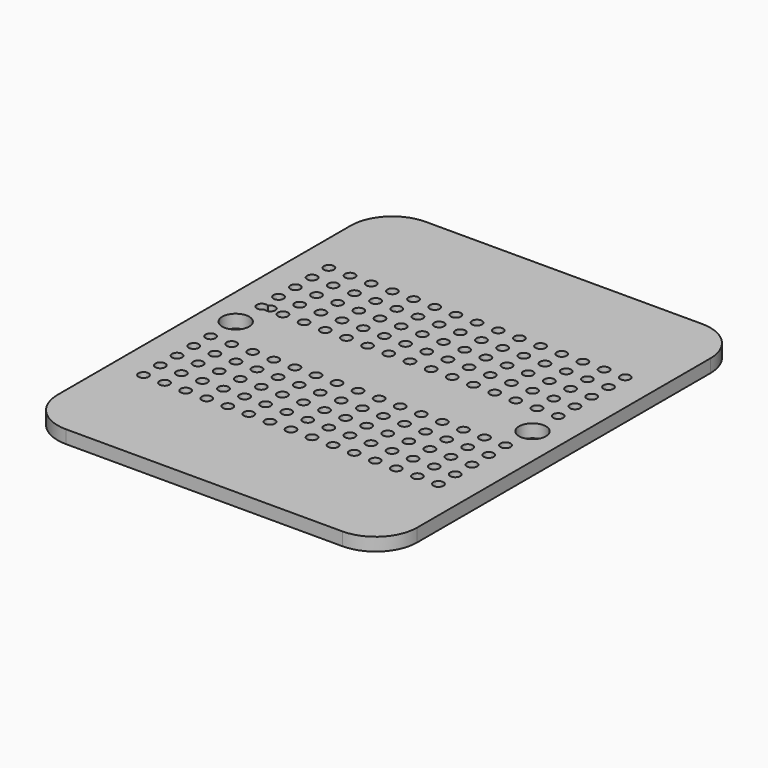
from build123d import *

# Parameters (mm, degrees)
F0_W     = 44
F0_H     = 55
F1_DEPTH = 1.6
F2_R     = 5.08
F3_R     = 0.614221
F3_R_2   = 1.645653
F3_R_3   = 0.612602
F4_DEPTH = 1.6


with BuildPart() as f1:
    # F0 (on Top) → F1 (new body)
    with BuildSketch(Plane.XY):
        with Locations((22, -27.5)):
            Rectangle(F0_W, F0_H)
    extrude(amount=F1_DEPTH)

    # F2
    f2_edges = [f1.edges().sort_by_distance(p)[0] for p in [
        (0, -55, 0.8),
        (44, -55, 0.8),
        (44, 0, 0.8),
        (0, 0, 0.8),
    ]]
    fillet(f2_edges, radius=F2_R)

    # F3 (on face) → F4 (intersect, through all)
    with BuildSketch(Plane.XY.offset(1.6)):
        with BuildLine():
            ThreePointArc((44, -5.08), (42.512102, -1.487898), (38.92, 0))
            Line((38.92, 0), (5.08, 0))
            ThreePointArc((5.08, 0), (1.487898, -1.487898), (0, -5.08))
            Line((0, -5.08), (0, -49.92))
            ThreePointArc((0, -49.92), (1.487898, -53.512102), (5.08, -55))
            Line((5.08, -55), (38.92, -55))
            ThreePointArc((38.92, -55), (42.512102, -53.512102), (44, -49.92))
            Line((44, -49.92), (44, -5.08))
        make_face()
        with Locations((3.856079, -41.605529)):
            Circle(F3_R, mode=Mode.SUBTRACT)
        with Locations((6.434179, -41.605529)):
            Circle(F3_R, mode=Mode.SUBTRACT)
        with Locations((9.012279, -41.605529)):
            Circle(F3_R, mode=Mode.SUBTRACT)
        with Locations((11.590379, -41.605529)):
            Circle(F3_R, mode=Mode.SUBTRACT)
        with Locations((14.168479, -41.605529)):
            Circle(F3_R, mode=Mode.SUBTRACT)
        with Locations((16.746579, -41.605529)):
            Circle(F3_R, mode=Mode.SUBTRACT)
        with Locations((19.324679, -41.605529)):
            Circle(F3_R, mode=Mode.SUBTRACT)
        with Locations((21.902779, -41.605529)):
            Circle(F3_R, mode=Mode.SUBTRACT)
        with Locations((3.856079, -39.040129)):
            Circle(F3_R, mode=Mode.SUBTRACT)
        with Locations((3.856079, -36.474729)):
            Circle(F3_R, mode=Mode.SUBTRACT)
        with Locations((6.434179, -39.040129)):
            Circle(F3_R, mode=Mode.SUBTRACT)
        with Locations((9.012279, -39.040129)):
            Circle(F3_R, mode=Mode.SUBTRACT)
        with Locations((6.434179, -36.474729)):
            Circle(F3_R, mode=Mode.SUBTRACT)
        with Locations((9.012279, -36.474729)):
            Circle(F3_R, mode=Mode.SUBTRACT)
        with Locations((3.856079, -33.909329)):
            Circle(F3_R, mode=Mode.SUBTRACT)
        with Locations((3.856079, -31.343929)):
            Circle(F3_R, mode=Mode.SUBTRACT)
        with Locations((6.434179, -33.909329)):
            Circle(F3_R, mode=Mode.SUBTRACT)
        with Locations((6.434179, -31.343929)):
            Circle(F3_R, mode=Mode.SUBTRACT)
        with Locations((9.012279, -33.909329)):
            Circle(F3_R, mode=Mode.SUBTRACT)
        with Locations((9.012279, -31.343929)):
            Circle(F3_R, mode=Mode.SUBTRACT)
        with Locations((11.590379, -39.040129)):
            Circle(F3_R, mode=Mode.SUBTRACT)
        with Locations((14.168479, -39.040129)):
            Circle(F3_R, mode=Mode.SUBTRACT)
        with Locations((11.590379, -36.474729)):
            Circle(F3_R, mode=Mode.SUBTRACT)
        with Locations((14.168479, -36.474729)):
            Circle(F3_R, mode=Mode.SUBTRACT)
        with Locations((16.746579, -39.040129)):
            Circle(F3_R, mode=Mode.SUBTRACT)
        with Locations((19.324679, -39.040129)):
            Circle(F3_R, mode=Mode.SUBTRACT)
        with Locations((21.902779, -39.040129)):
            Circle(F3_R, mode=Mode.SUBTRACT)
        with Locations((16.746579, -36.474729)):
            Circle(F3_R, mode=Mode.SUBTRACT)
        with Locations((19.324679, -36.474729)):
            Circle(F3_R, mode=Mode.SUBTRACT)
        with Locations((21.902779, -36.474729)):
            Circle(F3_R, mode=Mode.SUBTRACT)
        with Locations((11.590379, -33.909329)):
            Circle(F3_R, mode=Mode.SUBTRACT)
        with Locations((11.590379, -31.343929)):
            Circle(F3_R, mode=Mode.SUBTRACT)
        with Locations((14.168479, -33.909329)):
            Circle(F3_R, mode=Mode.SUBTRACT)
        with Locations((14.168479, -31.343929)):
            Circle(F3_R, mode=Mode.SUBTRACT)
        with Locations((16.746579, -33.909329)):
            Circle(F3_R, mode=Mode.SUBTRACT)
        with Locations((16.746579, -31.343929)):
            Circle(F3_R, mode=Mode.SUBTRACT)
        with Locations((19.324679, -33.909329)):
            Circle(F3_R, mode=Mode.SUBTRACT)
        with Locations((21.902779, -33.909329)):
            Circle(F3_R, mode=Mode.SUBTRACT)
        with Locations((19.324679, -31.343929)):
            Circle(F3_R, mode=Mode.SUBTRACT)
        with Locations((21.902779, -31.343929)):
            Circle(F3_R, mode=Mode.SUBTRACT)
        with Locations((24.480879, -41.605529)):
            Circle(F3_R, mode=Mode.SUBTRACT)
        with Locations((27.058979, -41.605529)):
            Circle(F3_R, mode=Mode.SUBTRACT)
        with Locations((29.637079, -41.605529)):
            Circle(F3_R, mode=Mode.SUBTRACT)
        with Locations((32.215179, -41.605529)):
            Circle(F3_R, mode=Mode.SUBTRACT)
        with Locations((34.793279, -41.605529)):
            Circle(F3_R, mode=Mode.SUBTRACT)
        with Locations((37.371379, -41.605529)):
            Circle(F3_R, mode=Mode.SUBTRACT)
        with Locations((39.949479, -41.605529)):
            Circle(F3_R, mode=Mode.SUBTRACT)
        with Locations((24.480879, -39.040129)):
            Circle(F3_R, mode=Mode.SUBTRACT)
        with Locations((27.058979, -39.040129)):
            Circle(F3_R, mode=Mode.SUBTRACT)
        with Locations((24.480879, -36.474729)):
            Circle(F3_R, mode=Mode.SUBTRACT)
        with Locations((27.058979, -36.474729)):
            Circle(F3_R, mode=Mode.SUBTRACT)
        with Locations((29.637079, -39.040129)):
            Circle(F3_R, mode=Mode.SUBTRACT)
        with Locations((32.215179, -39.040129)):
            Circle(F3_R, mode=Mode.SUBTRACT)
        with Locations((29.637079, -36.474729)):
            Circle(F3_R, mode=Mode.SUBTRACT)
        with Locations((32.215179, -36.474729)):
            Circle(F3_R, mode=Mode.SUBTRACT)
        with Locations((24.480879, -33.909329)):
            Circle(F3_R, mode=Mode.SUBTRACT)
        with Locations((24.480879, -31.343929)):
            Circle(F3_R, mode=Mode.SUBTRACT)
        with Locations((27.058979, -33.909329)):
            Circle(F3_R, mode=Mode.SUBTRACT)
        with Locations((27.058979, -31.343929)):
            Circle(F3_R, mode=Mode.SUBTRACT)
        with Locations((29.637079, -33.909329)):
            Circle(F3_R, mode=Mode.SUBTRACT)
        with Locations((29.637079, -31.343929)):
            Circle(F3_R, mode=Mode.SUBTRACT)
        with Locations((32.215179, -33.909329)):
            Circle(F3_R, mode=Mode.SUBTRACT)
        with Locations((32.215179, -31.343929)):
            Circle(F3_R, mode=Mode.SUBTRACT)
        with Locations((34.793279, -39.040129)):
            Circle(F3_R, mode=Mode.SUBTRACT)
        with Locations((37.371379, -39.040129)):
            Circle(F3_R, mode=Mode.SUBTRACT)
        with Locations((34.793279, -36.474729)):
            Circle(F3_R, mode=Mode.SUBTRACT)
        with Locations((37.371379, -36.474729)):
            Circle(F3_R, mode=Mode.SUBTRACT)
        with Locations((39.949479, -39.040129)):
            Circle(F3_R, mode=Mode.SUBTRACT)
        with Locations((39.949479, -36.474729)):
            Circle(F3_R, mode=Mode.SUBTRACT)
        with Locations((34.793279, -33.909329)):
            Circle(F3_R, mode=Mode.SUBTRACT)
        with Locations((34.793279, -31.343929)):
            Circle(F3_R, mode=Mode.SUBTRACT)
        with Locations((37.371379, -33.909329)):
            Circle(F3_R, mode=Mode.SUBTRACT)
        with Locations((37.371379, -31.343929)):
            Circle(F3_R, mode=Mode.SUBTRACT)
        with Locations((39.949479, -33.909329)):
            Circle(F3_R, mode=Mode.SUBTRACT)
        with Locations((39.949479, -31.343929)):
            Circle(F3_R, mode=Mode.SUBTRACT)
        with Locations((3.833656, -27.473937)):
            Circle(F3_R_2, mode=Mode.SUBTRACT)
        with BuildLine():
            ThreePointArc((4.368433, -23.781439), (3.235946, -23.626046), (4.179396, -22.980619))
            ThreePointArc((4.179396, -22.980619), (4.868573, -22.683539), (5.328269, -23.276752))
            ThreePointArc((5.328269, -23.276752), (5.000768, -23.818968), (4.368433, -23.781439))
        make_face(mode=Mode.SUBTRACT)
        with Locations((3.832162, -20.919907)):
            Circle(F3_R_3, mode=Mode.SUBTRACT)
        with Locations((6.422962, -23.485307)):
            Circle(F3_R_3, mode=Mode.SUBTRACT)
        with Locations((6.422962, -20.919907)):
            Circle(F3_R_3, mode=Mode.SUBTRACT)
        with Locations((9.013762, -23.485307)):
            Circle(F3_R_3, mode=Mode.SUBTRACT)
        with Locations((9.013762, -20.919907)):
            Circle(F3_R_3, mode=Mode.SUBTRACT)
        with Locations((3.832162, -18.354507)):
            Circle(F3_R_3, mode=Mode.SUBTRACT)
        with Locations((3.832162, -15.789107)):
            Circle(F3_R_3, mode=Mode.SUBTRACT)
        with Locations((6.422962, -18.354507)):
            Circle(F3_R_3, mode=Mode.SUBTRACT)
        with Locations((9.013762, -18.354507)):
            Circle(F3_R_3, mode=Mode.SUBTRACT)
        with Locations((6.422962, -15.789107)):
            Circle(F3_R_3, mode=Mode.SUBTRACT)
        with Locations((9.013762, -15.789107)):
            Circle(F3_R_3, mode=Mode.SUBTRACT)
        with Locations((11.604562, -23.485307)):
            Circle(F3_R_3, mode=Mode.SUBTRACT)
        with Locations((11.604562, -20.919907)):
            Circle(F3_R_3, mode=Mode.SUBTRACT)
        with Locations((14.195362, -23.485307)):
            Circle(F3_R_3, mode=Mode.SUBTRACT)
        with Locations((14.195362, -20.919907)):
            Circle(F3_R_3, mode=Mode.SUBTRACT)
        with Locations((16.786162, -23.485307)):
            Circle(F3_R_3, mode=Mode.SUBTRACT)
        with Locations((16.786162, -20.919907)):
            Circle(F3_R_3, mode=Mode.SUBTRACT)
        with Locations((19.376962, -23.485307)):
            Circle(F3_R_3, mode=Mode.SUBTRACT)
        with Locations((21.967762, -23.485307)):
            Circle(F3_R_3, mode=Mode.SUBTRACT)
        with Locations((19.376962, -20.919907)):
            Circle(F3_R_3, mode=Mode.SUBTRACT)
        with Locations((21.967762, -20.919907)):
            Circle(F3_R_3, mode=Mode.SUBTRACT)
        with Locations((11.604562, -18.354507)):
            Circle(F3_R_3, mode=Mode.SUBTRACT)
        with Locations((14.195362, -18.354507)):
            Circle(F3_R_3, mode=Mode.SUBTRACT)
        with Locations((11.604562, -15.789107)):
            Circle(F3_R_3, mode=Mode.SUBTRACT)
        with Locations((14.195362, -15.789107)):
            Circle(F3_R_3, mode=Mode.SUBTRACT)
        with Locations((16.786162, -18.354507)):
            Circle(F3_R_3, mode=Mode.SUBTRACT)
        with Locations((19.376962, -18.354507)):
            Circle(F3_R_3, mode=Mode.SUBTRACT)
        with Locations((21.967762, -18.354507)):
            Circle(F3_R_3, mode=Mode.SUBTRACT)
        with Locations((16.786162, -15.789107)):
            Circle(F3_R_3, mode=Mode.SUBTRACT)
        with Locations((19.376962, -15.789107)):
            Circle(F3_R_3, mode=Mode.SUBTRACT)
        with Locations((21.967762, -15.789107)):
            Circle(F3_R_3, mode=Mode.SUBTRACT)
        with Locations((3.832162, -13.223707)):
            Circle(F3_R_3, mode=Mode.SUBTRACT)
        with Locations((6.422962, -13.223707)):
            Circle(F3_R_3, mode=Mode.SUBTRACT)
        with Locations((9.013762, -13.223707)):
            Circle(F3_R_3, mode=Mode.SUBTRACT)
        with Locations((11.604562, -13.223707)):
            Circle(F3_R_3, mode=Mode.SUBTRACT)
        with Locations((14.195362, -13.223707)):
            Circle(F3_R_3, mode=Mode.SUBTRACT)
        with Locations((16.786162, -13.223707)):
            Circle(F3_R_3, mode=Mode.SUBTRACT)
        with Locations((19.376962, -13.223707)):
            Circle(F3_R_3, mode=Mode.SUBTRACT)
        with Locations((21.967762, -13.223707)):
            Circle(F3_R_3, mode=Mode.SUBTRACT)
        with Locations((24.558562, -23.485307)):
            Circle(F3_R_3, mode=Mode.SUBTRACT)
        with Locations((24.558562, -20.919907)):
            Circle(F3_R_3, mode=Mode.SUBTRACT)
        with Locations((27.149362, -23.485307)):
            Circle(F3_R_3, mode=Mode.SUBTRACT)
        with Locations((27.149362, -20.919907)):
            Circle(F3_R_3, mode=Mode.SUBTRACT)
        with Locations((29.740162, -23.485307)):
            Circle(F3_R_3, mode=Mode.SUBTRACT)
        with Locations((29.740162, -20.919907)):
            Circle(F3_R_3, mode=Mode.SUBTRACT)
        with Locations((32.330962, -23.485307)):
            Circle(F3_R_3, mode=Mode.SUBTRACT)
        with Locations((32.330962, -20.919907)):
            Circle(F3_R_3, mode=Mode.SUBTRACT)
        with Locations((24.558562, -18.354507)):
            Circle(F3_R_3, mode=Mode.SUBTRACT)
        with Locations((27.149362, -18.354507)):
            Circle(F3_R_3, mode=Mode.SUBTRACT)
        with Locations((24.558562, -15.789107)):
            Circle(F3_R_3, mode=Mode.SUBTRACT)
        with Locations((27.149362, -15.789107)):
            Circle(F3_R_3, mode=Mode.SUBTRACT)
        with Locations((29.740162, -18.354507)):
            Circle(F3_R_3, mode=Mode.SUBTRACT)
        with Locations((32.330962, -18.354507)):
            Circle(F3_R_3, mode=Mode.SUBTRACT)
        with Locations((29.740162, -15.789107)):
            Circle(F3_R_3, mode=Mode.SUBTRACT)
        with Locations((32.330962, -15.789107)):
            Circle(F3_R_3, mode=Mode.SUBTRACT)
        with Locations((34.921762, -23.485307)):
            Circle(F3_R_3, mode=Mode.SUBTRACT)
        with Locations((34.921762, -20.919907)):
            Circle(F3_R_3, mode=Mode.SUBTRACT)
        with Locations((37.512562, -23.485307)):
            Circle(F3_R_3, mode=Mode.SUBTRACT)
        with Locations((37.512562, -20.919907)):
            Circle(F3_R_3, mode=Mode.SUBTRACT)
        with Locations((40.155656, -27.473937)):
            Circle(F3_R_2, mode=Mode.SUBTRACT)
        with Locations((40.103362, -23.485307)):
            Circle(F3_R_3, mode=Mode.SUBTRACT)
        with Locations((40.103362, -20.919907)):
            Circle(F3_R_3, mode=Mode.SUBTRACT)
        with Locations((34.921762, -18.354507)):
            Circle(F3_R_3, mode=Mode.SUBTRACT)
        with Locations((37.512562, -18.354507)):
            Circle(F3_R_3, mode=Mode.SUBTRACT)
        with Locations((34.921762, -15.789107)):
            Circle(F3_R_3, mode=Mode.SUBTRACT)
        with Locations((37.512562, -15.789107)):
            Circle(F3_R_3, mode=Mode.SUBTRACT)
        with Locations((40.103362, -18.354507)):
            Circle(F3_R_3, mode=Mode.SUBTRACT)
        with Locations((40.103362, -15.789107)):
            Circle(F3_R_3, mode=Mode.SUBTRACT)
        with Locations((24.558562, -13.223707)):
            Circle(F3_R_3, mode=Mode.SUBTRACT)
        with Locations((27.149362, -13.223707)):
            Circle(F3_R_3, mode=Mode.SUBTRACT)
        with Locations((29.740162, -13.223707)):
            Circle(F3_R_3, mode=Mode.SUBTRACT)
        with Locations((32.330962, -13.223707)):
            Circle(F3_R_3, mode=Mode.SUBTRACT)
        with Locations((34.921762, -13.223707)):
            Circle(F3_R_3, mode=Mode.SUBTRACT)
        with Locations((37.512562, -13.223707)):
            Circle(F3_R_3, mode=Mode.SUBTRACT)
        with Locations((40.103362, -13.223707)):
            Circle(F3_R_3, mode=Mode.SUBTRACT)
    extrude(amount=-F4_DEPTH, mode=Mode.INTERSECT)


solid = f1.part
